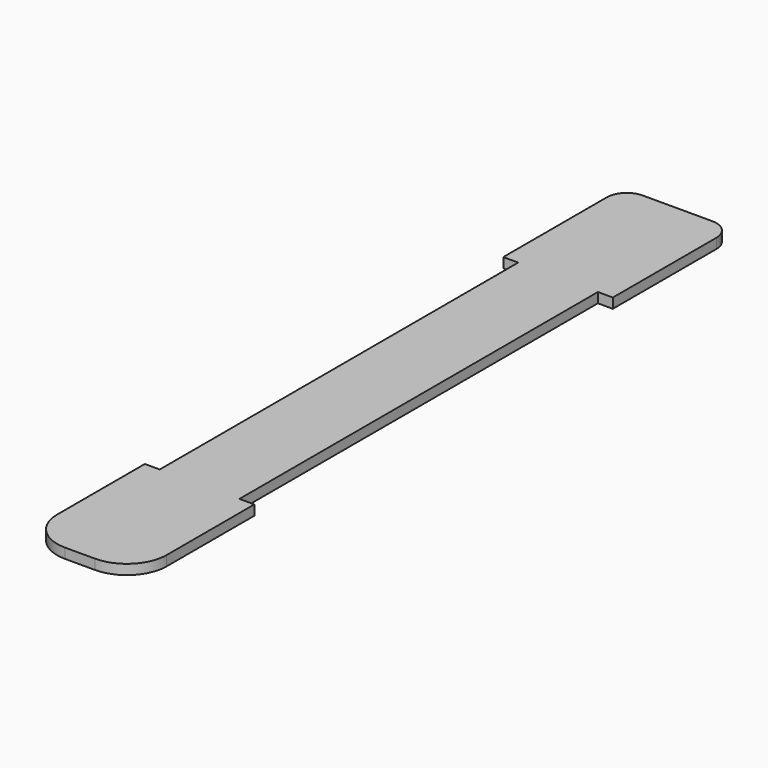
from build123d import *

# Parameters (mm, degrees)
F1_DEPTH = 1


with BuildPart() as f1:
    # F0 (on Top) → F1 (new body)
    with BuildSketch(Plane.XY):
        with BuildLine():
            ThreePointArc((5.5, 35.5), (4.914214, 36.914214), (3.5, 37.5))
            Line((3.5, 37.5), (-3.5, 37.5))
            ThreePointArc((-3.5, 37.5), (-4.914214, 36.914214), (-5.5, 35.5))
            Line((-5.5, 35.5), (-5.5, 22.5))
            Line((-5.5, 22.5), (-4, 22.5))
            Line((-4, 22.5), (-4, -22.5))
            Line((-4, -22.5), (-5.5, -22.5))
            Line((-5.5, -22.5), (-5.5, -33.5))
            ThreePointArc((-5.5, -33.5), (-4.328427, -36.328427), (-1.5, -37.5))
            Line((-1.5, -37.5), (1.5, -37.5))
            ThreePointArc((1.5, -37.5), (4.328427, -36.328427), (5.5, -33.5))
            Line((5.5, -33.5), (5.5, -22.5))
            Line((5.5, -22.5), (4, -22.5))
            Line((4, -22.5), (4, 22.5))
            Line((4, 22.5), (5.5, 22.5))
            Line((5.5, 22.5), (5.5, 35.5))
        make_face()
    extrude(amount=F1_DEPTH)


solid = f1.part
